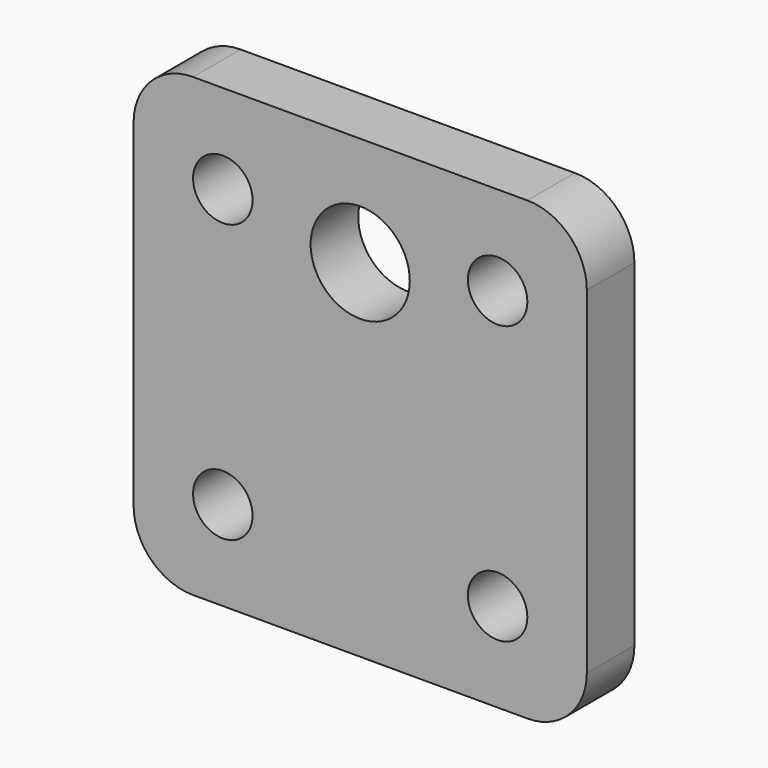
from build123d import *

# Parameters (mm, degrees)
F0_R     = 1.5
F0_R_2   = 2.5
F1_DEPTH = 3


with BuildPart() as f1:
    # F0 (on Front) → F1 (new body)
    with BuildSketch(Plane.XZ):
        with BuildLine():
            ThreePointArc((-11.428203, -8.5), (-10.549524, -10.62132), (-8.428203, -11.5))
            Line((-8.428203, -11.5), (8.428203, -11.5))
            ThreePointArc((8.428203, -11.5), (10.549524, -10.62132), (11.428203, -8.5))
            Line((11.428203, -8.5), (11.428203, 8.5))
            ThreePointArc((11.428203, 8.5), (10.549524, 10.62132), (8.428203, 11.5))
            Line((8.428203, 11.5), (-8.428203, 11.5))
            ThreePointArc((-8.428203, 11.5), (-10.549524, 10.62132), (-11.428203, 8.5))
            Line((-11.428203, 8.5), (-11.428203, -8.5))
        make_face()
        with Locations((-6.928203, -7)):
            Circle(F0_R, mode=Mode.SUBTRACT)
        with Locations((6.928203, -7)):
            Circle(F0_R, mode=Mode.SUBTRACT)
        with Locations((-6.928203, 7)):
            Circle(F0_R, mode=Mode.SUBTRACT)
        with Locations((0, 6)):
            Circle(F0_R_2, mode=Mode.SUBTRACT)
        with Locations((6.928203, 7)):
            Circle(F0_R, mode=Mode.SUBTRACT)
    extrude(amount=F1_DEPTH)


solid = f1.part
